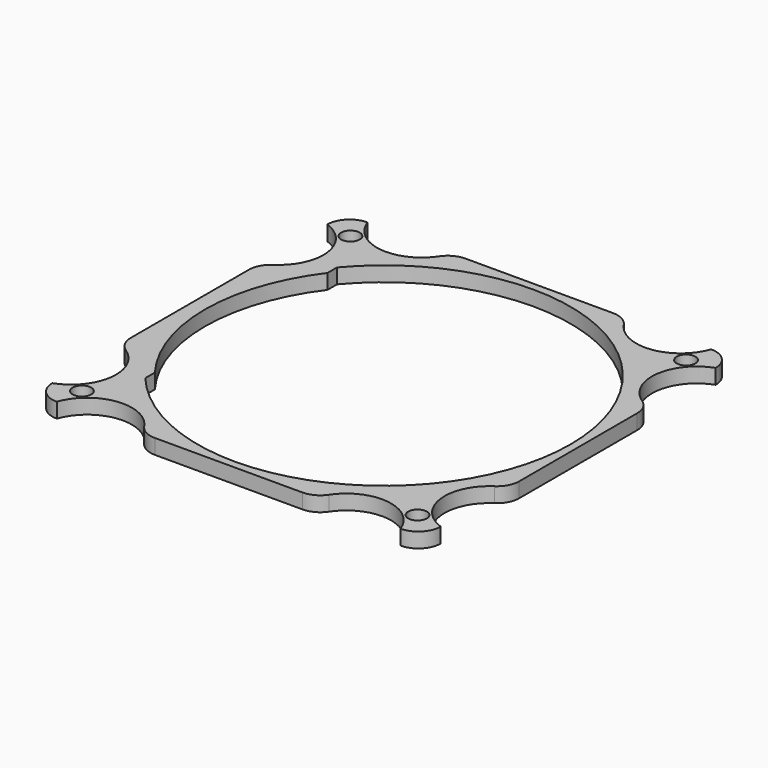
from build123d import *

# Parameters (mm, degrees)
F0_R     = 1.25
F1_DEPTH = 2


with BuildPart() as f1:
    # F0 (on Top) → F1 (new body)
    with BuildSketch(Plane.XY):
        with BuildLine():
            ThreePointArc((-8.2047607498, 21.4355311841), (-9.285447067, 22.4170267829), (-10.7014440761, 22.7722295374))
            Line((-10.7014440761, 22.7722295374), (-30.4778586684, 22.7722295374))
            ThreePointArc((-30.4778586684, 22.7722295374), (-31.8938556775, 22.4170267829), (-32.9745419947, 21.4355311841))
            ThreePointArc((-32.9745419947, 21.4355311841), (-38.714854708, 18.8088100634), (-43.6283219121, 22.7722295374))
            ThreePointArc((-43.6283219121, 22.7722295374), (-45.7496422557, 21.8935498809), (-46.6283219121, 19.7722295374))
            ThreePointArc((-46.6283219121, 19.7722295374), (-42.6649024381, 14.8587623333), (-45.2916235589, 9.11844962))
            ThreePointArc((-45.2916235589, 9.11844962), (-46.2731191577, 8.0377633028), (-46.6283219121, 6.6217662936))
            Line((-46.6283219121, 6.6217662936), (-46.6283219121, -13.1546482986))
            ThreePointArc((-46.6283219121, -13.1546482986), (-46.2731191577, -14.5706453077), (-45.2916235589, -15.6513316249))
            ThreePointArc((-45.2916235589, -15.6513316249), (-42.6649024381, -21.3916443382), (-46.6283219121, -26.3051115423))
            ThreePointArc((-46.6283219121, -26.3051115423), (-45.7496422557, -28.4264318859), (-43.6283219121, -29.3051115423))
            ThreePointArc((-43.6283219121, -29.3051115423), (-38.714854708, -25.3416920683), (-32.9745419947, -27.9684131891))
            ThreePointArc((-32.9745419947, -27.9684131891), (-31.8938556775, -28.9499087879), (-30.4778586684, -29.3051115423))
            Line((-30.4778586684, -29.3051115423), (-10.7014440761, -29.3051115423))
            ThreePointArc((-10.7014440761, -29.3051115423), (-9.285447067, -28.9499087879), (-8.2047607498, -27.9684131891))
            ThreePointArc((-8.2047607498, -27.9684131891), (-2.4644480365, -25.3416920683), (2.4490191676, -29.3051115423))
            ThreePointArc((2.4490191676, -29.3051115423), (4.5703395111, -28.4264318859), (5.4490191676, -26.3051115423))
            ThreePointArc((5.4490191676, -26.3051115423), (1.4855996936, -21.3916443382), (4.1123208143, -15.6513316249))
            ThreePointArc((4.1123208143, -15.6513316249), (5.0938164131, -14.5706453077), (5.4490191676, -13.1546482986))
            Line((5.4490191676, -13.1546482986), (5.4490191676, 6.6217662936))
            ThreePointArc((5.4490191676, 6.6217662936), (5.0938164131, 8.0377633028), (4.1123208143, 9.11844962))
            ThreePointArc((4.1123208143, 9.11844962), (1.4855996936, 14.8587623333), (5.4490191676, 19.7722295374))
            ThreePointArc((5.4490191676, 19.7722295374), (4.5703395111, 21.8935498809), (2.4490191676, 22.7722295374))
            ThreePointArc((2.4490191676, 22.7722295374), (-2.4644480365, 18.8088100634), (-8.2047607498, 21.4355311841))
        make_face()
        with Locations((-43.0896513723, -25.7664410025)):
            Circle(F0_R, mode=Mode.SUBTRACT)
        with Locations((1.9103486277, -25.7664410025)):
            Circle(F0_R, mode=Mode.SUBTRACT)
        with Locations((-43.0896513723, 19.2335589975)):
            Circle(F0_R, mode=Mode.SUBTRACT)
        with BuildLine():
            ThreePointArc((-1.4371607243, 12.8016049888), (2.9030311714, 5.2830541229), (4.4103486277, -3.2664410025))
            ThreePointArc((4.4103486277, -3.2664410025), (2.9030311714, -11.8159361279), (-1.4371607243, -19.3344869937))
            ThreePointArc((-1.4371607243, -19.3344869937), (-20.5896513723, -28.2664410025), (-39.7421420203, -19.3344869937))
            ThreePointArc((-39.7421420203, -19.3344869937), (-45.5896513723, -3.2664410025), (-39.7421420203, 12.8016049888))
            ThreePointArc((-39.7421420203, 12.8016049888), (-20.5896513723, 21.7335589975), (-1.4371607243, 12.8016049888))
        make_face(mode=Mode.SUBTRACT)
        with Locations((1.9103486277, 19.2335589975)):
            Circle(F0_R, mode=Mode.SUBTRACT)
        with BuildLine():
            Line((-39.7421420203, 11.1966880496), (-39.7421420203, 12.8016049888))
            ThreePointArc((-39.7421420203, 12.8016049888), (-45.5896513723, -3.2664410025), (-39.7421420203, -19.3344869937))
            Line((-39.7421420203, -19.3344869937), (-39.7421420203, -17.7295700546))
            ThreePointArc((-39.7421420203, -17.7295700546), (-44.5896513723, -3.2664410025), (-39.7421420203, 11.1966880496))
        make_face()
    extrude(amount=F1_DEPTH)


solid = f1.part
